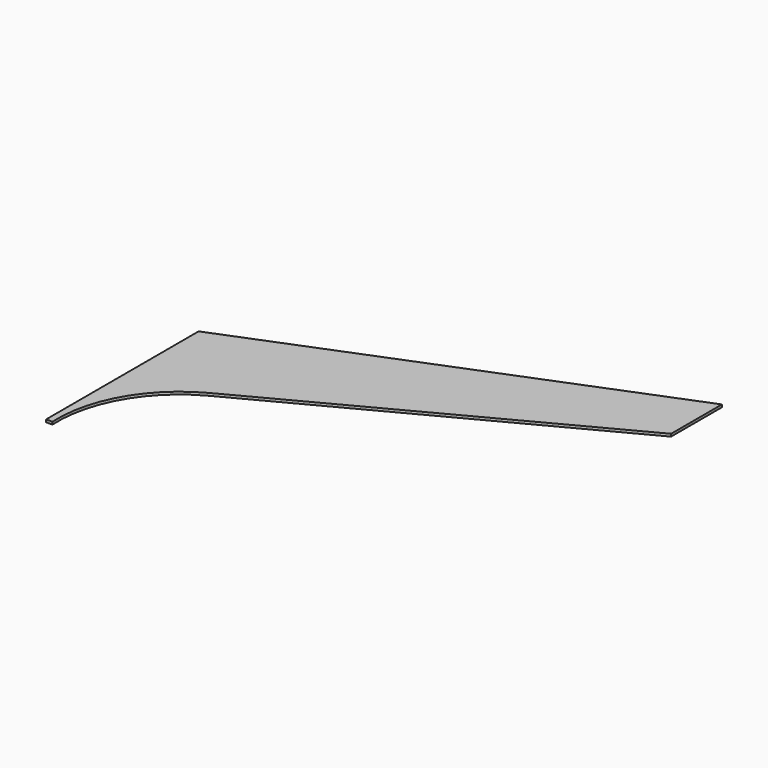
from build123d import *

# Parameters (mm, degrees)
F1_DEPTH = 4


with BuildPart() as f1:
    # F0 (on Top) → F1 (new body)
    with BuildSketch(Plane.XY):
        with BuildLine():
            ThreePointArc((-168.605889, -237.385293), (-143.763914, -132.446408), (-66.335739, -57.385293))
            Line((-66.335739, -57.385293), (445.015013, 212.506771))
            Line((445.015013, 212.506771), (445.015013, 312.506771))
            Line((445.015013, 312.506771), (-178.605889, 62.614707))
            Line((-178.605889, 62.614707), (-178.605889, -237.385293))
            Line((-178.605889, -237.385293), (-168.605889, -237.385293))
        make_face()
    extrude(amount=F1_DEPTH)


solid = f1.part
